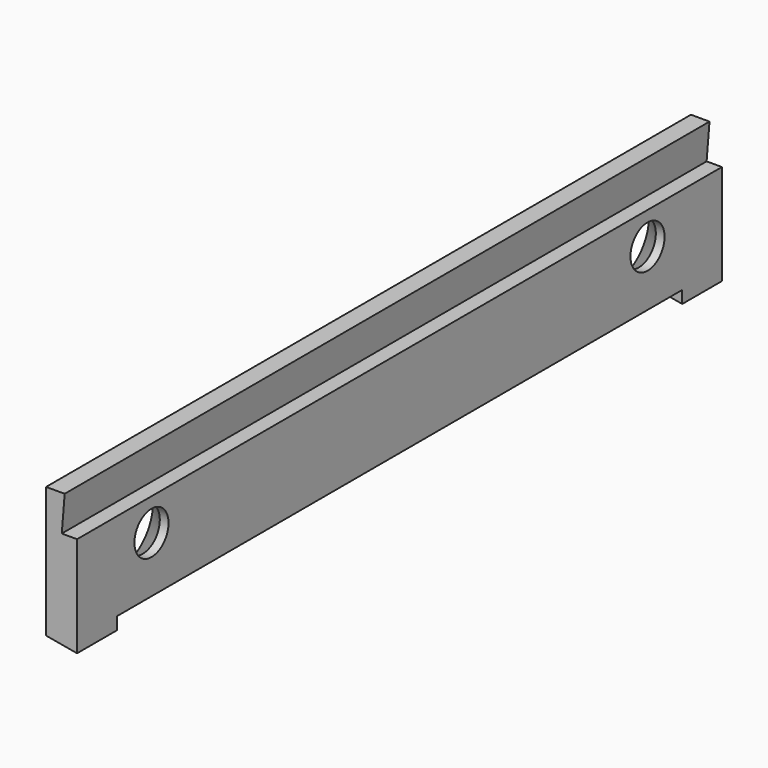
from build123d import *

# Parameters (mm, degrees)
F1_DEPTH       = 165.1
F3_D           = 8.7376
F3_CSINK_D     = 16.6624
F3_CSINK_ANGLE = 82
F4_W           = 6.35
F4_H           = 10.16
F5_DEPTH       = 2.54
F7_DEPTH       = 165.101


with BuildPart() as f1:
    # F0 (on Front) → F1 (new body)
    with BuildSketch(Plane.XZ):
        Polygon((0, 25.4), (0, 0), (6.35, 0), (6.35, 18.034), (3.2131, 18.034), (3.81, 25.4), align=None)
    extrude(amount=F1_DEPTH)

    # F3 (through all)
    with Locations(Plane(origin=(0, 0, 0), x_dir=(0, -1, 0), z_dir=(-1, 0, 0))):
        with Locations((19.05, 11.43), (146.05, 11.43)):
            CounterSinkHole(F3_D / 2, F3_CSINK_D / 2, counter_sink_angle=F3_CSINK_ANGLE)

    # F4 (on face) → F5 (join)
    with BuildSketch(Plane(origin=(0, 0, 0), x_dir=(1, 0, 0), z_dir=(0, 0, -1))):
        with Locations((3.175, 160.02)):
            Rectangle(F4_W, F4_H)
        with Locations((3.175, 5.08)):
            Rectangle(F4_W, F4_H)
    extrude(amount=F5_DEPTH)

    # F6 (on face) → F7 (cut, through all)
    with BuildSketch(Plane(origin=(0, 0, 0), x_dir=(-1, 0, 0), z_dir=(0, 1, 0))):
        Polygon((0, -1.4203236725), (-6.35, -2.54), (0, -2.54), align=None)
    extrude(amount=-F7_DEPTH, mode=Mode.SUBTRACT)


solid = f1.part
